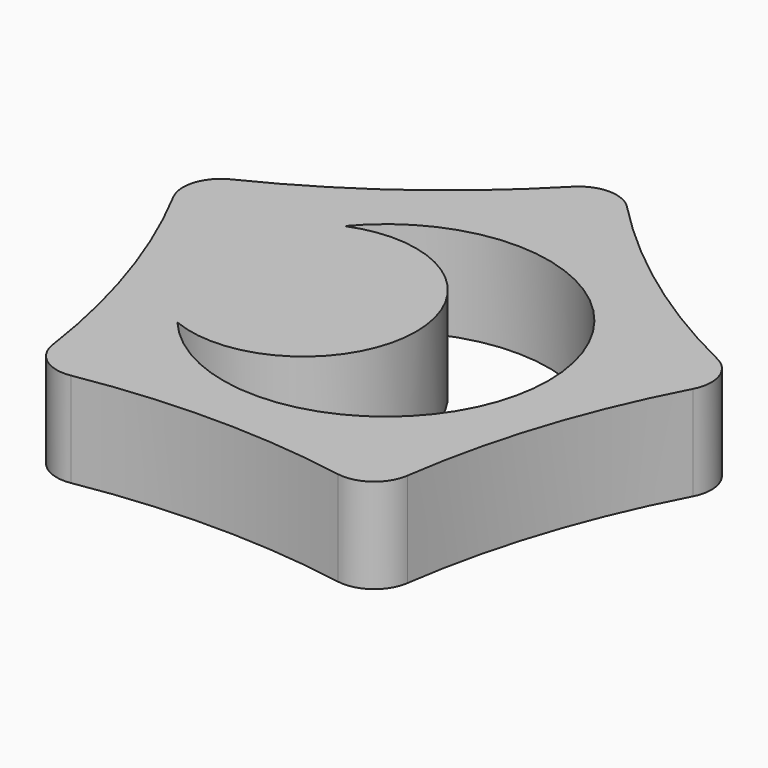
from build123d import *

# Parameters (mm, degrees)
F1_DEPTH = 5
F2_R     = 2


with BuildPart() as f1:
    # F0 (on Top) → F1 (new body)
    with BuildSketch(Plane.XY):
        with BuildLine():
            ThreePointArc((-9.125, -12.559485), (0, -11.531155), (9.125, -12.559485))
            ThreePointArc((9.125, -12.559485), (10.96678, -3.563323), (14.76456, 4.797296))
            ThreePointArc((14.76456, 4.797296), (6.777843, 9.3289), (0, 15.524377))
            ThreePointArc((0, 15.524377), (-6.777843, 9.3289), (-14.76456, 4.797296))
            ThreePointArc((-14.76456, 4.797296), (-10.96678, -3.563323), (-9.125, -12.559485))
        make_face()
        with BuildLine():
            ThreePointArc((-6.594019, 5.336478), (8.615573, -0.177029), (-6.594019, -5.690536))
            ThreePointArc((-6.594019, -5.690536), (1.613356, -0.177029), (-6.594019, 5.336478))
        make_face(mode=Mode.SUBTRACT)
    extrude(amount=F1_DEPTH)

    # F2
    f2_edges = [f1.edges().sort_by_distance(p)[0] for p in [
        (-14.76456, 4.797296, 2.5),
        (0, 15.524377, 2.5),
        (14.76456, 4.797296, 2.5),
        (9.125, -12.559485, 2.5),
        (-9.125, -12.559485, 2.5),
    ]]
    fillet(f2_edges, radius=F2_R)


solid = f1.part
